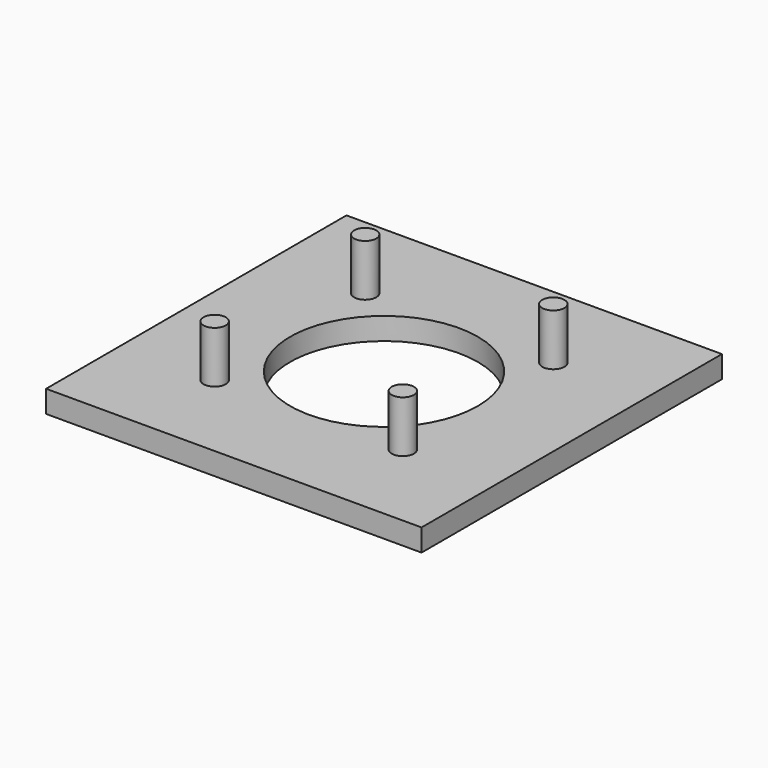
from build123d import *

# Parameters (mm, degrees)
F0_W     = 50.8
F0_H     = 50.8
F1_DEPTH = 3
F2_R     = 1.5
F3_DEPTH = 10
F4_R     = 12.7
F5_DEPTH = 25.4


with BuildPart() as f1:
    # F0 (on Top) → F1 (new body)
    with BuildSketch(Plane.XY):
        Rectangle(F0_W, F0_H)
    extrude(amount=F1_DEPTH)

    # F2 (on Top) → F3 (join)
    with BuildSketch(Plane.XY):
        with Locations((-12.727922, 12.727922)):
            Circle(F2_R)
        with Locations((-12.727922, -12.727922)):
            Circle(F2_R)
        with Locations((12.727922, -12.727922)):
            Circle(F2_R)
        with Locations((12.727922, 12.727922)):
            Circle(F2_R)
    extrude(amount=F3_DEPTH)

    # F4 (on face) → F5 (cut)
    with BuildSketch(Plane.XY.offset(3)):
        Circle(F4_R)
    extrude(amount=-F5_DEPTH, mode=Mode.SUBTRACT)


solid = f1.part
